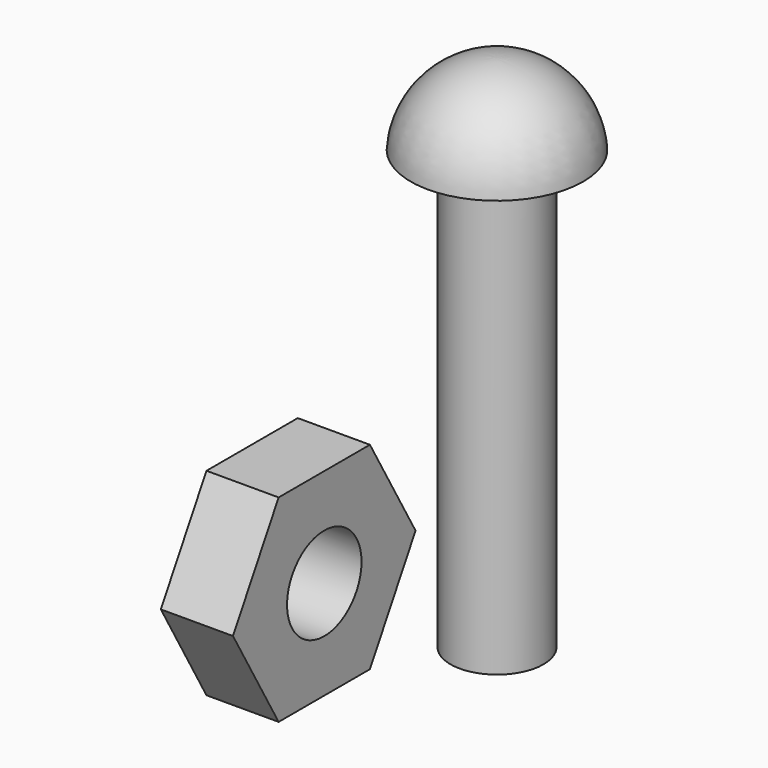
from build123d import *

# Parameters (mm, degrees)
F0_R     = 2.025
F1_DEPTH = 3.14


with BuildPart() as f1:
    # F0 (on Right) → F1 (new body)
    with BuildSketch(Plane.YZ):
        Polygon((-2.482606, 4.3), (-4.965212, 0), (-2.482606, -4.3), (2.482606, -4.3), (4.965212, 0), (2.482606, 4.3), align=None)
        Circle(F0_R, mode=Mode.SUBTRACT)
    extrude(amount=F1_DEPTH)


with BuildPart() as f3:
    # F2 (on Front) → F3 (revolve)
    with BuildSketch(Plane.XZ):
        with BuildLine():
            Line((10.656146, 22.55), (10.656146, 0))
            Line((10.656146, 0), (12.681146, 0))
            Line((12.681146, 0), (12.681146, 19.05))
            Line((12.681146, 19.05), (14.406146, 19.05))
            ThreePointArc((14.406146, 19.05), (13.220932, 21.539056), (10.656146, 22.55))
        make_face()
    revolve(axis=Axis((10.656146, 0, 11.275), (0, 0, -1)))


solid = Compound([f1.part, f3.part])
